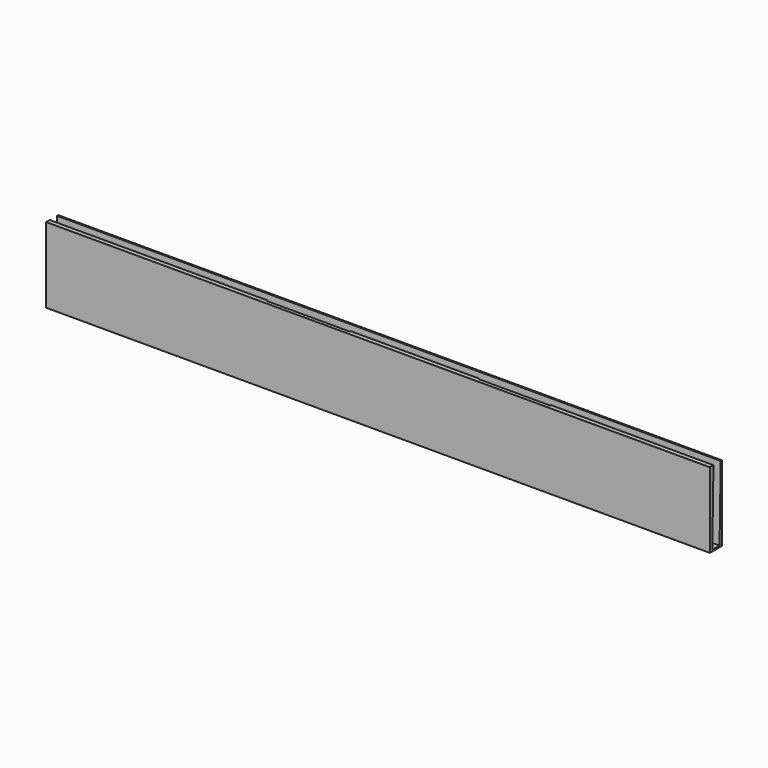
from build123d import *

# Parameters (mm, degrees)
F0_W     = 220
F0_H     = 5
F0_W_2   = 29
F0_H_2   = 2.5
F0_W_3   = 27.5
F0_H_3   = 2.85
F0_W_4   = 25
F0_H_4   = 2.3
F0_W_5   = 23.85
F0_H_5   = 2.8
F0_W_6   = 22
F0_H_6   = 2.05
F0_W_7   = 20.75
F0_H_7   = 2.1
F1_DEPTH = 25
F3_DEPTH = 300


with BuildPart() as f1:
    # F0 (on Top) → F1 (new body)
    with BuildSketch(Plane.XY):
        with Locations((0, -1.5)):
            Rectangle(F0_W, F0_H)
        with Locations((-63.582256, -1.25)):
            Rectangle(F0_W_2, F0_H_2, mode=Mode.SUBTRACT)
        with Locations((-24.016237, -1.425)):
            Rectangle(F0_W_3, F0_H_3, mode=Mode.SUBTRACT)
        with Locations((10.486829, -1.15)):
            Rectangle(F0_W_4, F0_H_4, mode=Mode.SUBTRACT)
        with Locations((44.239827, -1.4)):
            Rectangle(F0_W_5, F0_H_5, mode=Mode.SUBTRACT)
        with Locations((73.11739, -1.025)):
            Rectangle(F0_W_6, F0_H_6, mode=Mode.SUBTRACT)
        with Locations((97.211078, -1.05)):
            Rectangle(F0_W_7, F0_H_7, mode=Mode.SUBTRACT)
    extrude(amount=F1_DEPTH)

    # F2 (on face) → F3 (cut)
    with BuildSketch(Plane.YZ.offset(110)):
        Polygon((0.5, 25), (-2.5, 25), (-2.99, 0.5), (0.01, 0.5), align=None)
    extrude(amount=-F3_DEPTH, mode=Mode.SUBTRACT)


solid = f1.part
